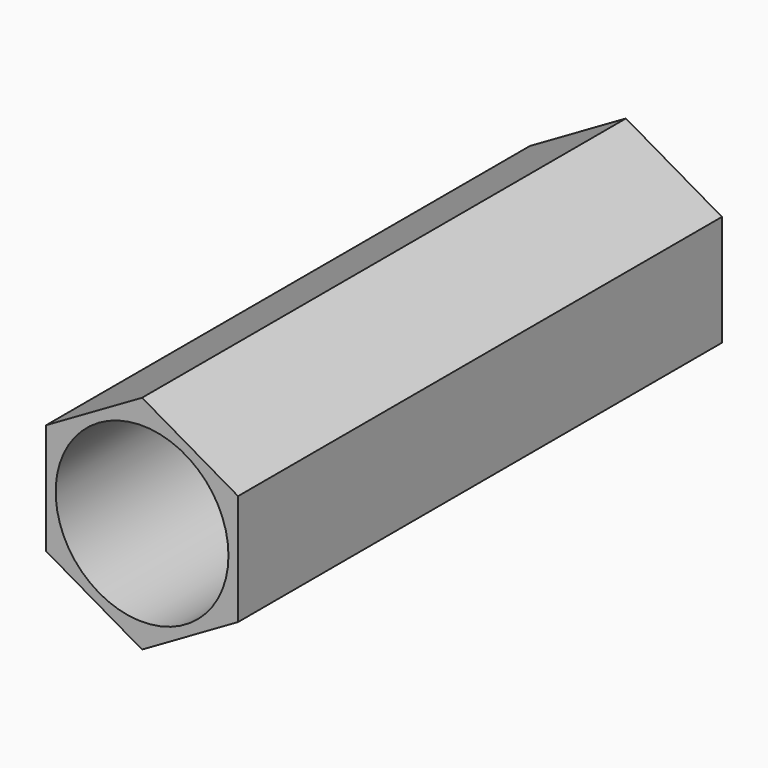
from build123d import *

# Parameters (mm, degrees)
F1_DEPTH = 35
F2_R     = 5
F3_DEPTH = 63.8


with BuildPart() as f1:
    # F0 (on Front) → F1 (new body)
    with BuildSketch(Plane.XZ):
        Polygon((5.555, -3.207181), (5.555, 3.207181), (0, 6.414361), (-5.555, 3.207181), (-5.555, -3.207181), (0, -6.414361), align=None)
    extrude(amount=F1_DEPTH)

    # F2 (on face) → F3 (cut)
    with BuildSketch(Plane.XZ.offset(35)):
        Circle(F2_R)
    extrude(amount=-F3_DEPTH, mode=Mode.SUBTRACT)


solid = f1.part
